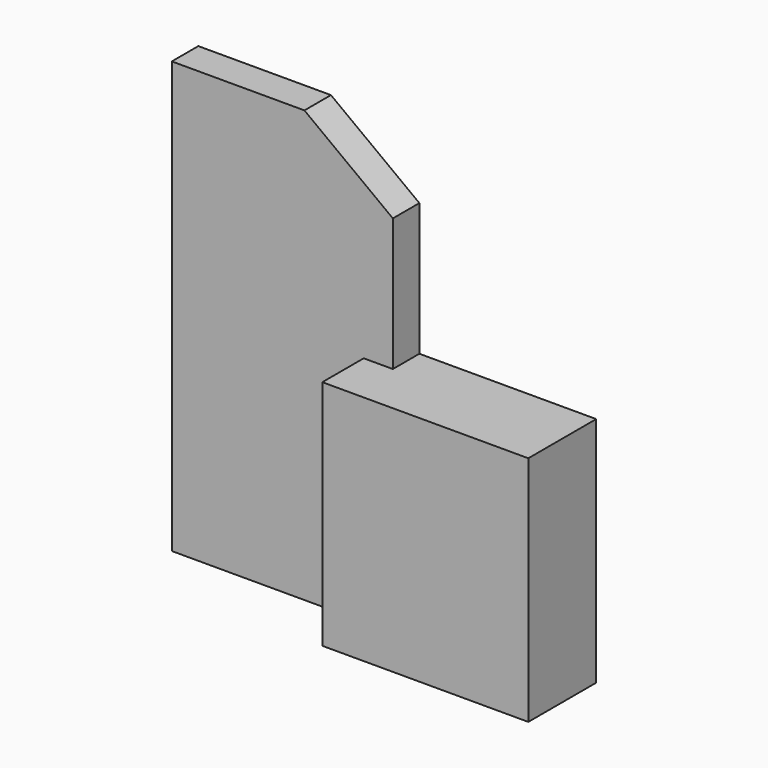
from build123d import *

# Parameters (mm, degrees)
F0_W     = 152.4
F0_H     = 12.7
F1_DEPTH = 165.1
F2_SIZE2 = 101.6
F2_SIZE  = 76.2
F4_DEPTH = 19.812
F6_DEPTH = 25.4


with BuildPart() as f1:
    # F0 (on Top) → F1 (new body)
    with BuildSketch(Plane.XY):
        Rectangle(F0_W, F0_H)
    extrude(amount=-F1_DEPTH)

    # F2
    f2_edges = [f1.edges().sort_by_distance(p)[0] for p in [
        (76.2, 0, 0),
    ]]
    chamfer(f2_edges, length=F2_SIZE, length2=F2_SIZE2)

    # F3 (on face) → F4 (join)
    with BuildSketch(Plane.XZ.offset(6.35)):
        Polygon((-2.6924, -165.1), (76.2, -165.1), (76.2, -120.65), (76.2, -76.2), (-2.6924, -76.2), align=None)
    extrude(amount=F4_DEPTH)

    # F5 (on face) → F6 (cut)
    with BuildSketch(Plane(origin=(0, 6.35, 0), x_dir=(-1, 0, 0), z_dir=(0, 1, 0))):
        Polygon((-8.466667, -25.4), (-76.2, -76.2), (-8.466667, -76.2), align=None)
    extrude(amount=-F6_DEPTH, mode=Mode.SUBTRACT)


solid = f1.part
